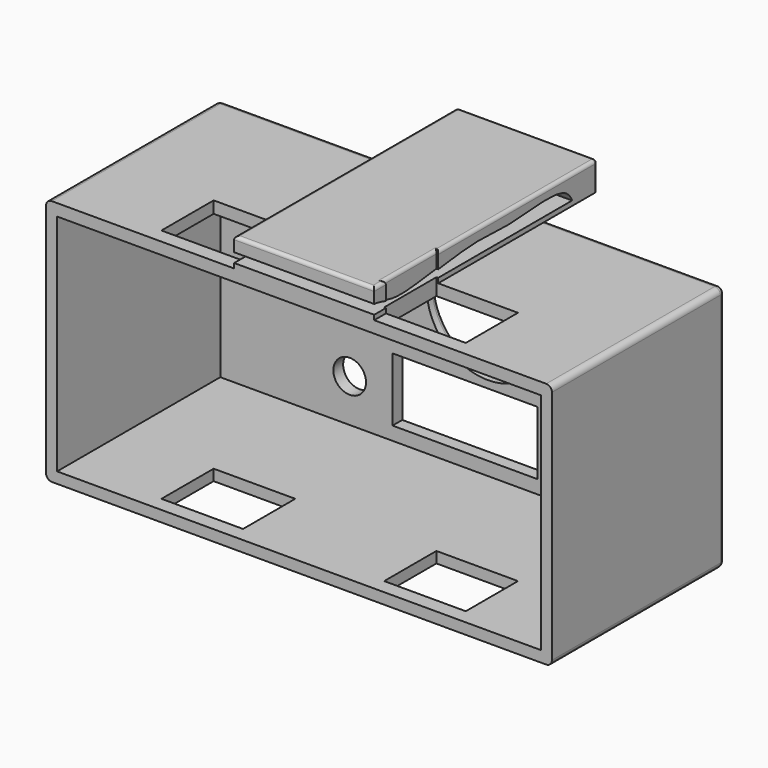
from build123d import *

# Parameters (mm, degrees)
F1_W           = 62
F1_H           = 30.3
F2_DEPTH       = 25
F2_DEPTH_BACK  = 1.5
F0_W           = 59.3
F0_H           = 27.5
F3_DEPTH       = 25
F4_R           = 7.5
F5_DEPTH       = 5
F6_R           = 0.7
F7_W           = 10
F7_H           = 8
F8_DEPTH       = 45
F8_DEPTH_BACK  = 5
F9_W           = 10
F9_H           = 8
F10_DEPTH      = 45
F10_DEPTH_BACK = 5
F11_W          = 17.1624887735
F11_H          = 8.3887656599
F12_DEPTH      = 3.5
F14_DEPTH      = 25
F15_R          = 2
F15_W          = 17.7555382252
F15_H          = 7.8
F16_DEPTH      = 5
F17_R          = 0.4


with BuildPart() as f2:
    # F1 (on Front) → F2 (new body, two sides)
    with BuildSketch(Plane.XZ) as f2_sk:
        with Locations((-9.2166643556, 13.8)):
            Rectangle(F1_W, F1_H)
    extrude(amount=F2_DEPTH)
    extrude(f2_sk.sketch, amount=-F2_DEPTH_BACK)

    # F0 (on Front) → F3 (cut)
    with BuildSketch(Plane.XZ):
        with Locations((-9.2166643556, 13.75)):
            Rectangle(F0_W, F0_H)
    extrude(amount=F3_DEPTH, mode=Mode.SUBTRACT)

    # F4 (on face) → F5 (cut)
    with BuildSketch(Plane.XZ):
        with Locations((-6.0752169229, 17.8459510207)):
            Circle(F4_R)
    extrude(amount=-F5_DEPTH, mode=Mode.SUBTRACT)

    # F6
    f6_edges = [f2.edges().sort_by_distance(p)[0] for p in [
        (-40.216664, 1.5, 13.8),
        (-9.216664, 1.5, 28.95),
        (-9.216664, 1.5, -1.35),
        (21.783336, 1.5, 13.8),
        (-13.575217, 1.5, 17.845951),
        (-40.216664, -11.75, -1.35),
        (21.783336, -11.75, -1.35),
        (-40.216664, -11.75, 28.95),
        (21.783336, -11.75, 28.95),
    ]]
    fillet(f6_edges, radius=F6_R)

    # F7 (on Top) → F8 (cut, two sides)
    with BuildSketch(Plane.XY) as f8_sk:
        with Locations((-22.5166643556, -19.2)):
            Rectangle(F7_W, F7_H)
    extrude(amount=F8_DEPTH, mode=Mode.SUBTRACT)
    extrude(f8_sk.sketch, amount=-F8_DEPTH_BACK, mode=Mode.SUBTRACT)

    # F9 (on Top) → F10 (cut, two sides)
    with BuildSketch(Plane.XY) as f10_sk:
        with Locations((4.7833356444, -19.2)):
            Rectangle(F9_W, F9_H)
    extrude(amount=F10_DEPTH, mode=Mode.SUBTRACT)
    extrude(f10_sk.sketch, amount=-F10_DEPTH_BACK, mode=Mode.SUBTRACT)

    # F11 (on face) → F12 (join)
    with BuildSketch(Plane.XY.offset(28.95)):
        with Locations((-8.5812443867, 4.99438283)):
            Rectangle(F11_W, F11_H)
        Polygon((-17.1624887735, 0.8), (-17.1624887735, -25), (0, -25), (0, -23.2), (-0.2166643556, -23.2), (-0.2166643556, -15.2), (0, -15.2), (0, 0.8), align=None)
    extrude(amount=F12_DEPTH)

    # F13 (on face) → F14 (cut)
    with BuildSketch(Plane(origin=(-17.1624887735, 0, 0), x_dir=(0, -1, 0), z_dir=(-1, 0, 0))):
        with BuildLine():
            Line((25, 29.5397602022), (25, 30.7))
            add(Edge.make_bspline(
                [(-5.3185094148, 29.5397602022), (-5.0194907216, 30.1895282865), (-4.0777484074, 31.2751947082), (0.1656733941, 31.273480595), (5.0517480146, 30.6919086163), (9.849243279, 31.3916847552), (19.6642698069, 29.6875462454), (22.594998302, 30.0402251841), (24.287338472, 30.642664728), (25, 30.7)],
                knots=[0, 0, 0, 0, 0.0969434491, 0.2371816387, 0.3923007199, 0.5516305114, 0.7710331834, 0.8933299971, 1, 1, 1, 1], degree=3))
            Line((-5.3185094148, 29.5397602022), (25, 29.5397602022))
        make_face()
    extrude(amount=-F14_DEPTH, mode=Mode.SUBTRACT)

    # F15 (on face) → F16 (cut)
    with BuildSketch(Plane.XZ):
        with Locations((-23.0055382252, 5.2544213831)):
            Circle(F15_R)
        with Locations((5.25, 5.2544213831)):
            Circle(F15_R)
        with Locations((-8.8777691126, 5.5436356924)):
            Rectangle(F15_W, F15_H)
    extrude(amount=-F16_DEPTH, mode=Mode.SUBTRACT)

    # F17
    f17_edges = [f2.edges().sort_by_distance(p)[0] for p in [
        (-8.581244, 9.188766, 32.45),
        (-17.162489, -7.905617, 32.45),
        (-8.581244, -25, 32.45),
        (0, -24.1, 32.45),
        (-0.108332, -23.2, 32.45),
        (-0.216664, -19.2, 32.45),
        (-0.108332, -15.2, 32.45),
        (0, -3.005617, 32.45),
        (-8.581244, 9.188766, 28.95),
        (0, 9.188766, 30.7),
        (-17.162489, 9.188766, 30.7),
    ]]
    fillet(f17_edges, radius=F17_R)


solid = f2.part
